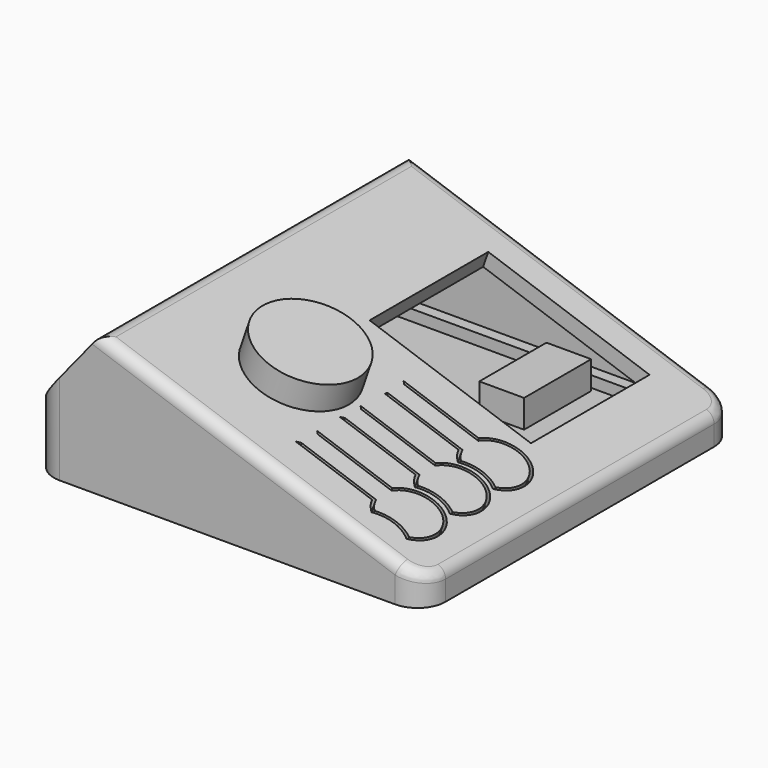
from build123d import *

# Parameters (mm, degrees)
PAD_DEPTH                = 35
FILLET_R                 = 5
THICKNESS_T              = -2.8
FILLET001_R              = 2
SKETCH001_R              = 3
SKETCH001_W              = 30.5
SKETCH001_H              = 26.5
POCKET_DEPTH             = 5
SKETCH004_W              = 8.5
SKETCH004_H              = 3.8
POCKET001_DEPTH          = 5
PAD002_START             = -2
PAD002_DEPTH             = 2
POCKET002_DEPTH          = 5
SKETCH008_W              = 12
SKETCH008_H              = 3.5
POCKET003_DEPTH          = 1.5
CYLINDER_R               = 9
CYLINDER_DEPTH           = 5
CYLINDER_PLACEMENT_ANGLE = 19
PAD001_DEPTH             = 2
SKETCH009_R              = 6.1
POCKET004_DEPTH          = 1.3
SKETCH010_W              = 8
SKETCH010_H              = 15
PAD003_DEPTH             = 5
SKETCH011_R              = 3.2
PAD004_DEPTH             = 7
SKETCH012_W              = 3
SKETCH012_H              = 25
PAD005_DEPTH             = 3


with BuildPart() as top_body:
    # Sketch → Pad (new body, symmetric)
    with BuildSketch(Plane.XZ):
        Polygon((-35, 0), (35, 0), (35, 5), (-22.8180160455, 25), (-35, 10), align=None)
    extrude(amount=PAD_DEPTH, both=True)

    # Fillet
    fillet_edges = [top_body.edges().sort_by_distance(p)[0] for p in [
        (35, -35, 2.5),
        (35, 35, 2.5),
        (-35, 35, 5),
        (-35, -35, 5),
    ]]
    fillet(fillet_edges, radius=FILLET_R)

    # Thickness
    thickness_openings = [top_body.faces().sort_by_distance(p)[0] for p in [
        (0, 0, 0),
    ]]
    offset(amount=THICKNESS_T, openings=thickness_openings)

    # Fillet001
    fillet001_edges = [top_body.edges().sort_by_distance(p)[0] for p in [
        (35, 0, 5),
        (33.485294, 33.585069, 5.523956),
        (33.485294, -33.585069, 5.523956),
        (3.590992, 35, 15.864782),
        (3.590992, -35, 15.864782),
        (-22.818016, 0, 25),
    ]]
    fillet(fillet001_edges, radius=FILLET001_R)

    # Sketch001 (on Face10 of Fillet001) → Pocket (cut)
    with BuildSketch(Plane(origin=(5.2851212043, 0, 15.2787611295), x_dir=(0.9450564273, 0, -0.3269072486), z_dir=(0.3269072486, 0, 0.9450564273))):
        with Locations((-8, -16)):
            Circle(SKETCH001_R)
        with Locations((5.25, 15.25)):
            Rectangle(SKETCH001_W, SKETCH001_H)
    extrude(amount=-POCKET_DEPTH, mode=Mode.SUBTRACT)

    # Sketch004 (on Face1 of Thickness) → Pocket001 (cut)
    with BuildSketch(Plane(origin=(-35, 0, 0), x_dir=(0, -1, 0), z_dir=(-1, 0, 0))):
        with Locations((0, 5.4)):
            Rectangle(SKETCH004_W, SKETCH004_H)
    extrude(amount=-POCKET001_DEPTH, mode=Mode.SUBTRACT)

    # Sketch005 (on Face4 of Pocket001) → Pad002 (join)
    with BuildSketch(Plane(origin=(0, 0, 0), x_dir=(1, 0, 0), z_dir=(0, 0, -1)).offset(PAD002_START)):
        with BuildLine():
            Line((-32.2, 30), (-32.2, -30))
            ThreePointArc((-32.2, -30), (-31.5556349186, -31.5556349186), (-30, -32.2))
            Line((-30, -32.2), (30, -32.2))
            ThreePointArc((30, -32.2), (31.5556349186, -31.5556349186), (32.2, -30))
            Line((32.2, -30), (32.2, 30))
            ThreePointArc((32.2, 30), (31.5556349186, 31.5556349186), (30, 32.2))
            Line((30, 32.2), (-30, 32.2))
            ThreePointArc((-30, 32.2), (-31.5556349186, 31.5556349186), (-32.2, 30))
        make_face()
        Polygon((-30.2, 26.5), (-26.5, 30.2), (26.5, 30.2), (30.2, 26.5), (30.2, -26.5), (26.5, -30.2), (-26.5, -30.2), (-30.2, -26.5), align=None, mode=Mode.SUBTRACT)
    extrude(amount=-PAD002_DEPTH)

    # Sketch006 (on Face10 of Pad002) → Pocket002 (cut)
    with BuildSketch(Plane(origin=(5.2851212043, 0, 15.2787611295), x_dir=(0.9450564273, 0, -0.3269072486), z_dir=(0.3269072486, 0, 0.9450564273))):
        with BuildLine():
            Line((15.531453374, -23.109972419), (1.331453374, -23.109972419))
            Line((1.331453374, -23.109972419), (1.8664198502, -23.609972419))
            Line((15.8664198502, -23.609972419), (1.8664198502, -23.609972419))
            ThreePointArc((23.8201847427, -29.1424309825), (23.405283768, -21.2553024025), (15.8664198502, -23.609972419))
            ThreePointArc((23.8201847427, -29.1424309825), (20.550168349, -28.209972419), (17.2801519553, -29.1424309825))
            ThreePointArc((15.8664198502, -27.109972419), (16.4454983325, -28.215087838), (17.2801519553, -29.1424309825))
            Line((1.775468, -27.109972419), (15.8664198502, -27.109972419))
            Line((1.015261, -27.609972419), (1.775468, -27.109972419))
            Line((1.015261, -27.609972419), (15.531453374, -27.609972419))
            ThreePointArc((15.531453374, -27.609972419), (16.2547847294, -28.7950385844), (17.2518264583, -29.7612155129))
            ThreePointArc((23.8485102397, -29.7612155129), (20.550168349, -28.709972419), (17.2518264583, -29.7612155129))
            ThreePointArc((23.8485102397, -29.7612155129), (23.9852345144, -21.0645887995), (15.531453374, -23.109972419))
        make_face()
        with BuildLine():
            Line((15.531453374, -13.4155998074), (1.331453374, -13.4155998074))
            Line((1.331453374, -13.4155998074), (1.8664198502, -13.9155998074))
            Line((15.8664198502, -13.9155998074), (1.8664198502, -13.9155998074))
            ThreePointArc((23.8201847427, -19.4480583709), (23.405283768, -11.5609297909), (15.8664198502, -13.9155998074))
            ThreePointArc((23.8201847427, -19.4480583709), (20.550168349, -18.5155998074), (17.2801519553, -19.4480583709))
            ThreePointArc((15.8664198502, -17.4155998074), (16.4454983325, -18.5207152263), (17.2801519553, -19.4480583709))
            Line((1.775468, -17.4155998074), (15.8664198502, -17.4155998074))
            Line((1.198293, -17.9155998074), (1.775468, -17.4155998074))
            Line((1.198293, -17.9155998074), (15.531453374, -17.9155998074))
            ThreePointArc((15.531453374, -17.9155998074), (16.2547847294, -19.1006659728), (17.2518264583, -20.0668429013))
            ThreePointArc((23.8485102397, -20.0668429013), (20.550168349, -19.0155998074), (17.2518264583, -20.0668429013))
            ThreePointArc((23.8485102397, -20.0668429013), (23.9852345144, -11.3702161878), (15.531453374, -13.4155998074))
        make_face()
        with BuildLine():
            Line((15.531453374, -3.7994051075), (1.331453374, -3.7994051075))
            Line((1.331453374, -3.7994051075), (1.8664198502, -4.2994051075))
            Line((15.8664198502, -4.2994051075), (1.8664198502, -4.2994051075))
            ThreePointArc((23.8201847427, -9.831863671), (23.405283768, -1.944735091), (15.8664198502, -4.2994051075))
            ThreePointArc((23.8201847427, -9.831863671), (20.550168349, -8.8994051075), (17.2801519553, -9.831863671))
            ThreePointArc((15.8664198502, -7.7994051075), (16.4454983325, -8.9045205264), (17.2801519553, -9.831863671))
            Line((1.775468, -7.7994051075), (15.8664198502, -7.7994051075))
            Line((1.518614, -8.2994051075), (1.775468, -7.7994051075))
            Line((1.518614, -8.2994051075), (15.531453374, -8.2994051075))
            ThreePointArc((15.531453374, -8.2994051075), (16.2547847294, -9.4844712729), (17.2518264583, -10.4506482014))
            ThreePointArc((23.8485102397, -10.4506482014), (20.550168349, -9.3994051075), (17.2518264583, -10.4506482014))
            ThreePointArc((23.8485102397, -10.4506482014), (23.9852345144, -1.7540214879), (15.531453374, -3.7994051075))
        make_face()
    extrude(amount=-POCKET002_DEPTH, mode=Mode.SUBTRACT)

    # Sketch008 (on Face72 of Pocket002) → Pocket003 (cut)
    with BuildSketch(Plane(origin=(4.3697809081, 0, 12.6326031331), x_dir=(0.9450564273, 0, -0.3269072486), z_dir=(-0.3269072486, 0, -0.9450564273))):
        with Locations((9.2192236781, 25.359972419)):
            Rectangle(SKETCH008_W, SKETCH008_H)
        with Locations((9.2192236781, 15.6655998074)):
            Rectangle(SKETCH008_W, SKETCH008_H)
        with Locations((9.2192236781, 6.0494051075)):
            Rectangle(SKETCH008_W, SKETCH008_H)
    extrude(amount=-POCKET003_DEPTH, mode=Mode.SUBTRACT)


with BuildPart() as cylinder:
    # Cylinder → Cylinder (new body)
    with BuildSketch(Plane.XY):
        Circle(CYLINDER_R)
    extrude(amount=CYLINDER_DEPTH)


with BuildPart() as cylinder_1:
    # Cylinder placement: moved
    add(cylinder.part.moved(Location((-2, -16, 19))).rotate(Axis((-2, -16, 19), (0, 1, 0)), CYLINDER_PLACEMENT_ANGLE))


with BuildPart() as body:
    # Sketch003 → Pad001 (new body)
    with BuildSketch(Plane.XY):
        with BuildLine():
            Line((-29.9116326754, -32), (29.9116326754, -32))
            ThreePointArc((29.9116326754, -32), (31.3883313722, -31.3883313722), (32, -29.9116326754))
            Line((32, -29.9116326754), (32, 29.9116326754))
            ThreePointArc((32, 29.9116326754), (31.3883313722, 31.3883313722), (29.9116326754, 32))
            Line((29.9116326754, 32), (-29.9116326754, 32))
            ThreePointArc((-29.9116326754, 32), (-31.3883313722, 31.3883313722), (-32, 29.9116326754))
            Line((-32, 29.9116326754), (-32, -29.9116326754))
            ThreePointArc((-32, -29.9116326754), (-31.3883313722, -31.3883313722), (-29.9116326754, -32))
        make_face()
    extrude(amount=PAD001_DEPTH)

    # Sketch009 (on Face9 of Pad001) → Pocket004 (cut)
    with BuildSketch(Plane(origin=(0, 0, 0), x_dir=(1, 0, 0), z_dir=(0, 0, -1))):
        with Locations((24.3259621702, 21.8245918231)):
            Circle(SKETCH009_R)
        with Locations((22.2077093579, -24.4379721315)):
            Circle(SKETCH009_R)
        with Locations((-24.3707197086, -22.5452837108)):
            Circle(SKETCH009_R)
        with Locations((-22.0613969198, 24.3110037187)):
            Circle(SKETCH009_R)
    extrude(amount=-POCKET004_DEPTH, mode=Mode.SUBTRACT)

    # Sketch010 (on Face5 of Pocket004) → Pad003 (join)
    with BuildSketch(Plane.XY.offset(2)):
        with Locations((9.46, 21.9694825092)):
            Rectangle(SKETCH010_W, SKETCH010_H)
    extrude(amount=PAD003_DEPTH)

    # Sketch011 (on Face5 of Pocket004) → Pad004 (join)
    with BuildSketch(Plane.XY.offset(2)):
        with Locations((-3.482311, -16.14)):
            Circle(SKETCH011_R)
    extrude(amount=PAD004_DEPTH)

    # Sketch012 (on Face5 of Pad004) → Pad005 (join)
    with BuildSketch(Plane.XY.offset(2)):
        with Locations((27.5, 0)):
            Rectangle(SKETCH012_W, SKETCH012_H)
    extrude(amount=PAD005_DEPTH)


solid = Compound([top_body.part, cylinder_1.part, body.part])
